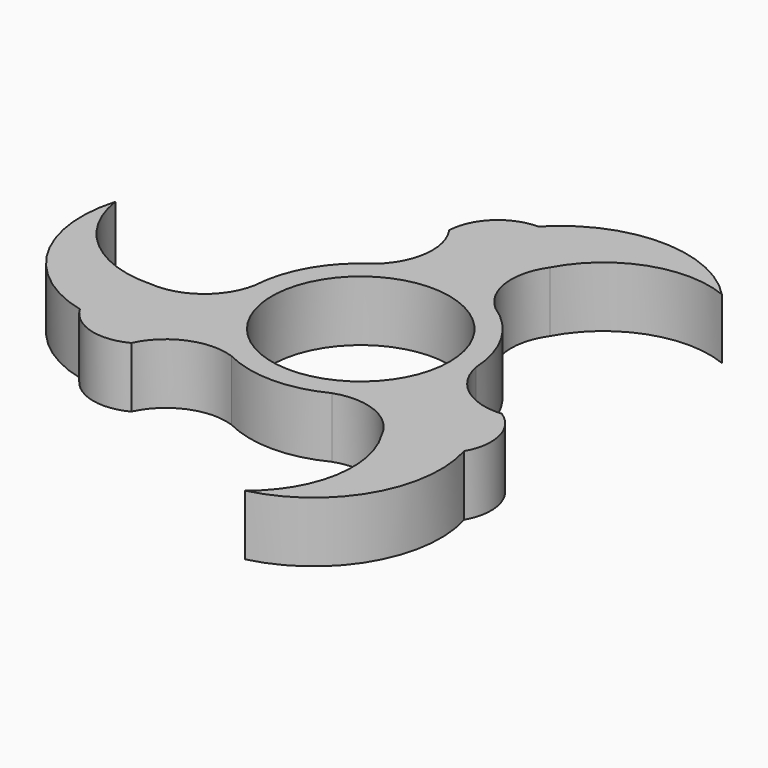
from build123d import *

# Parameters (mm, degrees)
F0_R     = 11.2
F1_DEPTH = 7.62


with BuildPart() as f1:
    # F0 (on Top) → F1 (new body)
    with BuildSketch(Plane.XY):
        with BuildLine():
            ThreePointArc((-15.763955, -16.433672), (-11.815159, -12.623003), (-6.330137, -12.453524))
            ThreePointArc((-6.330137, -12.453524), (-12.098375, -6.985), (-13.950137, 0.744703))
            ThreePointArc((-13.950137, 0.744703), (-16.839421, -3.920726), (-22.113955, -5.435149))
            ThreePointArc((-22.113955, -5.435149), (-24.875537, -9.285143), (-24.206626, -13.975702))
            ThreePointArc((-24.206626, -13.975702), (-20.478938, -16.900275), (-15.763955, -16.433672))
        make_face()
        with BuildLine():
            ThreePointArc((-24.206626, -13.975702), (-24.875537, -9.285143), (-22.113955, -5.435149))
            ThreePointArc((-22.113955, -5.435149), (-31.150508, -2.292609), (-35.784443, 6.077664))
            ThreePointArc((-35.784443, 6.077664), (-34.289307, -6.42803), (-24.206626, -13.975702))
        make_face()
        with BuildLine():
            ThreePointArc((-7.62, 11.708821), (0, 13.97), (7.62, 11.708821))
            ThreePointArc((7.62, 11.708821), (5.024262, 16.543729), (6.35, 21.868821))
            ThreePointArc((6.35, 21.868821), (4.396599, 26.185418), (0, 27.951405))
            ThreePointArc((0, 27.951405), (-4.396599, 26.185418), (-6.35, 21.868821))
            ThreePointArc((-6.35, 21.868821), (-5.024262, 16.543729), (-7.62, 11.708821))
        make_face()
        with BuildLine():
            ThreePointArc((0, 27.951405), (4.396599, 26.185418), (6.35, 21.868821))
            ThreePointArc((6.35, 21.868821), (13.589796, 28.123436), (23.155633, 27.951405))
            ThreePointArc((23.155633, 27.951405), (11.577817, 32.909426), (0, 27.951405))
        make_face()
        with BuildLine():
            ThreePointArc((6.330137, -12.453524), (11.907832, -7.305097), (13.97, 0))
            ThreePointArc((13.97, 0), (13.965033, 0.372484), (13.950137, 0.744703))
            ThreePointArc((13.950137, 0.744703), (12.098375, 6.985), (7.62, 11.708821))
            ThreePointArc((7.62, 11.708821), (0, 13.97), (-7.62, 11.708821))
            ThreePointArc((-7.62, 11.708821), (-12.098375, 6.985), (-13.950137, 0.744703))
            ThreePointArc((-13.950137, 0.744703), (-12.098375, -6.985), (-6.330137, -12.453524))
            ThreePointArc((-6.330137, -12.453524), (0, -13.97), (6.330137, -12.453524))
        make_face()
        Circle(F0_R, mode=Mode.SUBTRACT)
        with BuildLine():
            ThreePointArc((13.950137, 0.744703), (13.965033, 0.372484), (13.97, 0))
            ThreePointArc((13.97, 0), (11.907832, -7.305097), (6.330137, -12.453524))
            ThreePointArc((6.330137, -12.453524), (11.815159, -12.623003), (15.763955, -16.433672))
            ThreePointArc((15.763955, -16.433672), (20.478938, -16.900275), (24.206626, -13.975702))
            ThreePointArc((24.206626, -13.975702), (24.875537, -9.285143), (22.113955, -5.435149))
            ThreePointArc((22.113955, -5.435149), (16.839421, -3.920726), (13.950137, 0.744703))
        make_face()
        with BuildLine():
            ThreePointArc((24.206626, -13.975702), (20.478938, -16.900275), (15.763955, -16.433672))
            ThreePointArc((15.763955, -16.433672), (17.560712, -25.830826), (12.62881, -34.029069))
            ThreePointArc((12.62881, -34.029069), (22.71149, -26.481396), (24.206626, -13.975702))
        make_face()
    extrude(amount=F1_DEPTH)


solid = f1.part
